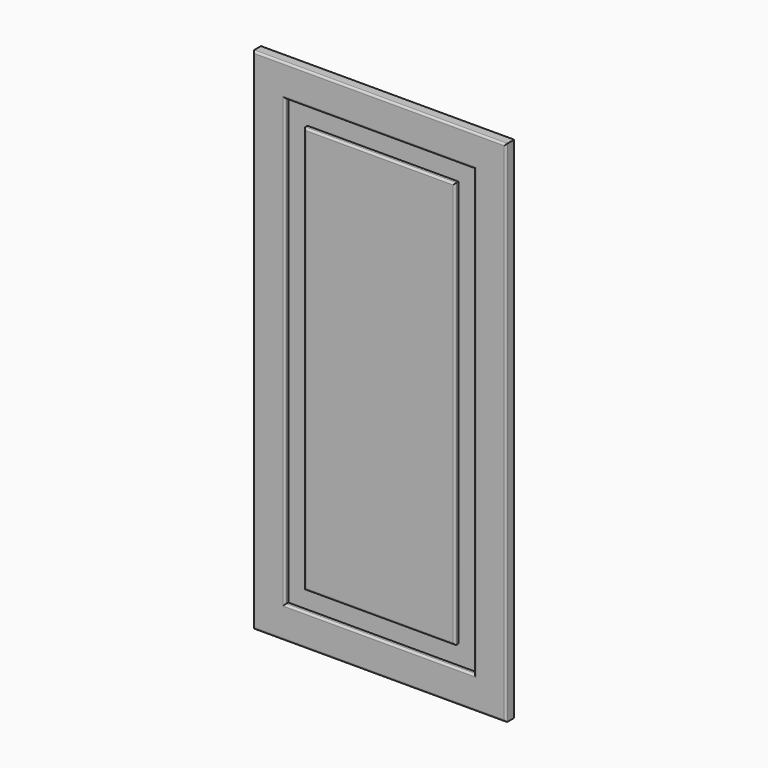
from build123d import *

# Parameters (mm, degrees)
F0_W      = 44.656470418
F0_H      = 33.8078811765
F1_DEPTH  = 16
F2_DEPTH  = 796
F3_DEPTH  = 196
F4_W      = 68.9578056335
F4_H      = 493.6993122101
F5_DEPTH  = 7
F6_DEPTH  = 9.7
F7_DEPTH  = 99.33
F8_DEPTH  = 99.33
F9_DEPTH  = 17.34
F10_DEPTH = 102.97
F11_W     = 35.2807044983
F11_H     = 492.0964837074
F12_DEPTH = 7
F13_DEPTH = 37.27
F14_DEPTH = 6.58
F15_DEPTH = 106.63
F16_DEPTH = 5.87
F17_DEPTH = 200
F18_DEPTH = 200
F19_DEPTH = 200
F20_DEPTH = 600
F21_DEPTH = 600
F22_DEPTH = 600
F23_DEPTH = 200
F24_DEPTH = 200
F25_DEPTH = 200
F26_DEPTH = 200
F27_DEPTH = 200
F28_DEPTH = 200
F29_DEPTH = 200
F30_DEPTH = 200
F31_DEPTH = 200
F32_R     = 3


with BuildPart() as f1:
    # F0 (on Front) → F1 (new body)
    with BuildSketch(Plane.XZ):
        with Locations((22.328235209, 16.9039405882)):
            Rectangle(F0_W, F0_H)
    extrude(amount=F1_DEPTH)

    # F2 (add): a face of the model
    f2_faces = [f1.faces().sort_by_distance(p)[0] for p in [
        (22.328235209, -8, 0),
    ]]
    extrude(f2_faces, amount=-F2_DEPTH)

    # F3 (add): a face of the model
    f3_faces = [f1.faces().sort_by_distance(p)[0] for p in [
        (0, -8, 398),
    ]]
    extrude(f3_faces, amount=-F3_DEPTH)

    # F4 (on face) → F5 (cut)
    with BuildSketch(Plane.XZ.offset(16)):
        with Locations((94.1769480705, 399.8196721077)):
            Rectangle(F4_W, F4_H)
    extrude(amount=-F5_DEPTH, mode=Mode.SUBTRACT)

    # F6 (cut): a face of the model
    f6_faces = [f1.faces().sort_by_distance(p)[0] for p in [
        (59.6980452538, -12.5, 399.8196721077),
    ]]
    extrude(f6_faces, amount=-F6_DEPTH, mode=Mode.SUBTRACT)

    # F7 (add): a face of the model
    f7_faces = [f1.faces().sort_by_distance(p)[0] for p in [
        (89.3269480705, -12.5, 646.6693282127),
    ]]
    extrude(f7_faces, amount=-F7_DEPTH)

    # F8 (cut): a face of the model
    f8_faces = [f1.faces().sort_by_distance(p)[0] for p in [
        (89.3269480705, -12.5, 646.6693282127),
    ]]
    extrude(f8_faces, amount=-F8_DEPTH, mode=Mode.SUBTRACT)

    # F9 (cut): a face of the model
    f9_faces = [f1.faces().sort_by_distance(p)[0] for p in [
        (128.6558508873, -12.5, 449.4846721077),
    ]]
    extrude(f9_faces, amount=-F9_DEPTH, mode=Mode.SUBTRACT)

    # F10 (cut): a face of the model
    f10_faces = [f1.faces().sort_by_distance(p)[0] for p in [
        (97.9969480705, -12.5, 152.9700160027),
    ]]
    extrude(f10_faces, amount=-F10_DEPTH, mode=Mode.SUBTRACT)

    # F11 (on face) → F12 (join)
    with BuildSketch(Plane.XZ.offset(9)):
        with Locations((91.7714834213, 432.6795041561)):
            Rectangle(F11_W, F11_H)
    extrude(amount=F12_DEPTH)

    # F13 (add): a face of the model
    f13_faces = [f1.faces().sort_by_distance(p)[0] for p in [
        (91.7714834213, -12.5, 678.7277460098),
    ]]
    extrude(f13_faces, amount=F13_DEPTH)

    # F14 (add): a face of the model
    f14_faces = [f1.faces().sort_by_distance(p)[0] for p in [
        (109.4118356705, -12.5, 451.3145041561),
    ]]
    extrude(f14_faces, amount=F14_DEPTH)

    # F15 (add): a face of the model
    f15_faces = [f1.faces().sort_by_distance(p)[0] for p in [
        (95.0614834213, -12.5, 186.6312623024),
    ]]
    extrude(f15_faces, amount=F15_DEPTH)

    # F16 (cut): a face of the model
    f16_faces = [f1.faces().sort_by_distance(p)[0] for p in [
        (74.1311311722, -12.5, 397.9995041561),
    ]]
    extrude(f16_faces, amount=-F16_DEPTH, mode=Mode.SUBTRACT)

    # F17 (add): a face of the model
    f17_faces = [f1.faces().sort_by_distance(p)[0] for p in [
        (196, -8, 398),
    ]]
    extrude(f17_faces, amount=F17_DEPTH)

    # F18 (cut): a face of the model
    f18_faces = [f1.faces().sort_by_distance(p)[0] for p in [
        (145.9958508873, -12.5, 397.9996721077),
    ]]
    extrude(f18_faces, amount=-F18_DEPTH, mode=Mode.SUBTRACT)

    # F19 (add): a face of the model
    f19_faces = [f1.faces().sort_by_distance(p)[0] for p in [
        (115.9918356705, -12.5, 397.9995041561),
    ]]
    extrude(f19_faces, amount=F19_DEPTH)

    # F20 (cut): a face of the model
    f20_faces = [f1.faces().sort_by_distance(p)[0] for p in [
        (197.9964834213, -12.5, 80.0012623024),
    ]]
    extrude(f20_faces, amount=-F20_DEPTH, mode=Mode.SUBTRACT)

    # F21 (add): a face of the model
    f21_faces = [f1.faces().sort_by_distance(p)[0] for p in [
        (197.9969480705, -12.5, 50.0000160027),
    ]]
    extrude(f21_faces, amount=F21_DEPTH)

    # F22 (cut): a face of the model
    f22_faces = [f1.faces().sort_by_distance(p)[0] for p in [
        (198, -8, 0),
    ]]
    extrude(f22_faces, amount=-F22_DEPTH, mode=Mode.SUBTRACT)

    # F23 (add): a face of the model
    f23_faces = [f1.faces().sort_by_distance(p)[0] for p in [
        (198, -8, 600),
    ]]
    extrude(f23_faces, amount=F23_DEPTH)

    # F24 (cut): a face of the model
    f24_faces = [f1.faces().sort_by_distance(p)[0] for p in [
        (197.9969480705, -12.5, 650.0000160027),
    ]]
    extrude(f24_faces, amount=-F24_DEPTH, mode=Mode.SUBTRACT)

    # F25 (add): a face of the model
    f25_faces = [f1.faces().sort_by_distance(p)[0] for p in [
        (197.9964834213, -12.5, 680.0012623024),
    ]]
    extrude(f25_faces, amount=F25_DEPTH)

    # F26 (add): a face of the model
    f26_faces = [f1.faces().sort_by_distance(p)[0] for p in [
        (198, -8, 796),
    ]]
    extrude(f26_faces, amount=F26_DEPTH)

    # F27 (cut): a face of the model
    f27_faces = [f1.faces().sort_by_distance(p)[0] for p in [
        (197.9969480705, -12.5, 745.9993282127),
    ]]
    extrude(f27_faces, amount=-F27_DEPTH, mode=Mode.SUBTRACT)

    # F28 (add): a face of the model
    f28_faces = [f1.faces().sort_by_distance(p)[0] for p in [
        (197.9964834213, -12.5, 715.9977460098),
    ]]
    extrude(f28_faces, amount=F28_DEPTH)

    # F29 (add): a face of the model
    f29_faces = [f1.faces().sort_by_distance(p)[0] for p in [
        (198, -8, 400),
    ]]
    extrude(f29_faces, amount=F29_DEPTH)

    # F30 (cut): a face of the model
    f30_faces = [f1.faces().sort_by_distance(p)[0] for p in [
        (197.9969480705, -12.5, 450.0000160027),
    ]]
    extrude(f30_faces, amount=-F30_DEPTH, mode=Mode.SUBTRACT)

    # F31 (add): a face of the model
    f31_faces = [f1.faces().sort_by_distance(p)[0] for p in [
        (197.9964834213, -12.5, 480.0012623024),
    ]]
    extrude(f31_faces, amount=F31_DEPTH)

    # F32
    f32_edges = [f1.edges().sort_by_distance(p)[0] for p in [
        (0, -16, 598),
        (198, -16, 200),
        (396, -16, 598),
        (198, -16, 996),
        (345.995851, -16, 597.999672),
        (197.996948, -16, 250.000016),
        (49.998045, -16, 597.999672),
        (197.996948, -16, 945.999328),
        (197.996483, -16, 915.997746),
        (315.991836, -16, 597.999504),
        (197.996483, -16, 280.001262),
        (80.001131, -16, 597.999504),
    ]]
    fillet(f32_edges, radius=F32_R)


solid = f1.part
